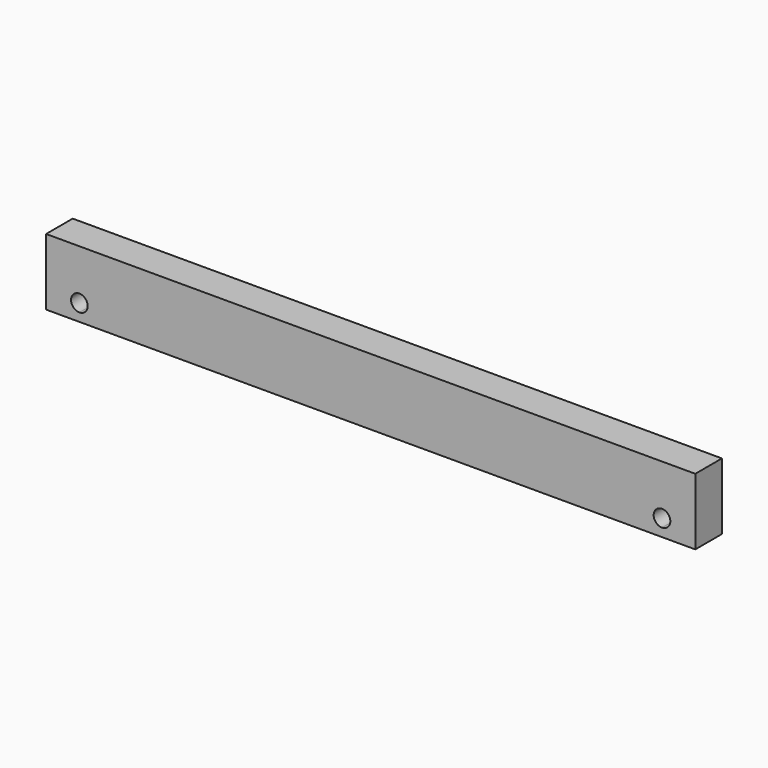
from build123d import *

# Parameters (mm, degrees)
F0_W     = 990.6
F0_H     = 101.6
F1_DEPTH = 50.8
F3_DEPTH = 50.801


with BuildPart() as f1:
    # F0 (on Front) → F1 (new body)
    with BuildSketch(Plane.XZ):
        with Locations((495.3, 50.8)):
            Rectangle(F0_W, F0_H)
    extrude(amount=F1_DEPTH)

    # F2 (on face) → F3 (cut, through all)
    with BuildSketch(Plane.XZ.offset(50.8)):
        with BuildLine():
            ThreePointArc((63.5, 25.4), (59.780256, 34.380256), (50.8, 38.1))
            Line((50.8, 38.1), (50.8, 12.7))
            ThreePointArc((50.8, 12.7), (59.780256, 16.419744), (63.5, 25.4))
        make_face()
        with BuildLine():
            Line((50.8, 12.7), (50.8, 38.1))
            ThreePointArc((50.8, 38.1), (38.1, 25.4), (50.8, 12.7))
        make_face()
        with BuildLine():
            ThreePointArc((952.5, 25.4), (948.780256, 34.380256), (939.8, 38.1))
            Line((939.8, 38.1), (939.8, 12.7))
            ThreePointArc((939.8, 12.7), (948.780256, 16.419744), (952.5, 25.4))
        make_face()
        with BuildLine():
            Line((939.8, 12.7), (939.8, 38.1))
            ThreePointArc((939.8, 38.1), (927.1, 25.4), (939.8, 12.7))
        make_face()
    extrude(amount=-F3_DEPTH, mode=Mode.SUBTRACT)


solid = f1.part
